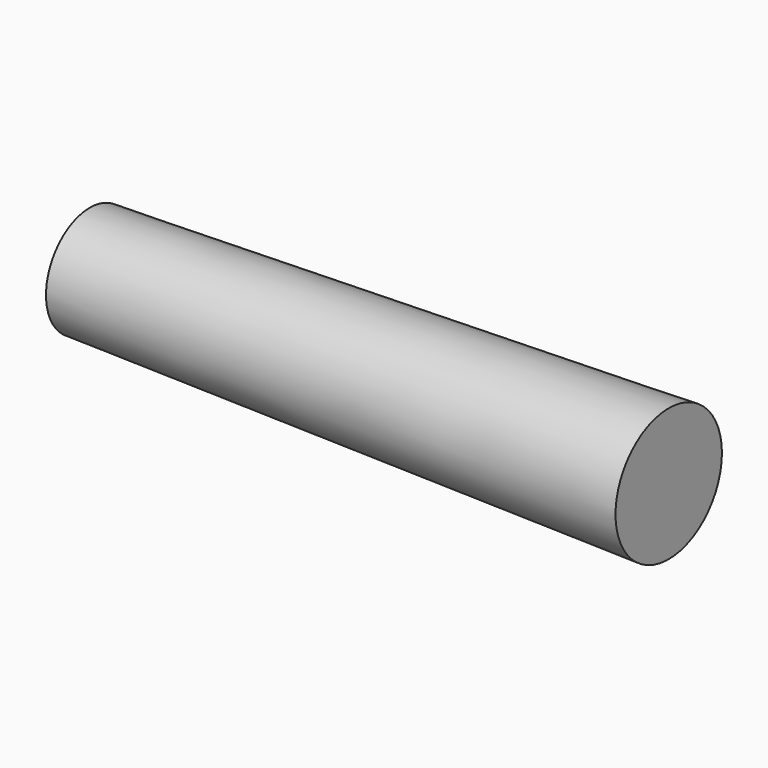
from build123d import *

# Parameters (mm, degrees)
F3_R = 4.25
F2_R = 3.5


with BuildPart() as f4:
    # F3 (on offset) → F4 section 0
    with BuildSketch(Plane.YZ.offset(7)):
        with Locations((-44.276454, 44.766601)):
            Circle(F3_R)
    # F2 (on offset) → F4 section 1
    with BuildSketch(Plane.YZ.offset(-30)):
        with Locations((-44.276454, 44.766601)):
            Circle(F2_R)
    loft()


solid = f4.part
